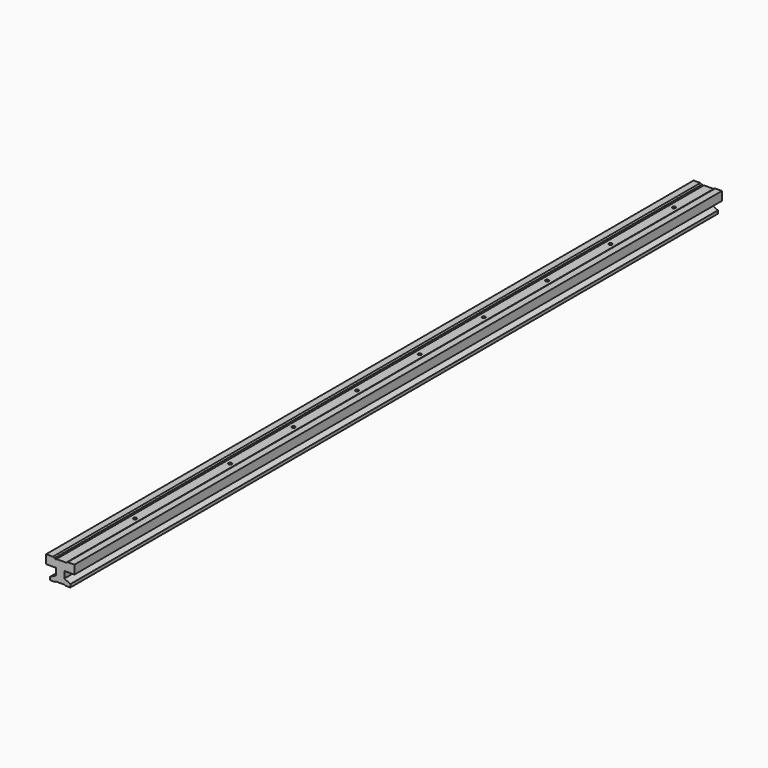
from build123d import *

# Parameters (mm, degrees)
F1_DEPTH = 609.6
F3_D     = 2.54


with BuildPart() as f1:
    # F0 (on Front) → F1 (new body)
    with BuildSketch(Plane.XZ):
        with BuildLine():
            Line((-6.559787, -4.439499), (-11.639787, -4.439499))
            Line((-11.639787, -4.439499), (-11.639787, -11.043499))
            Line((-11.639787, -11.043499), (-4.019787, -11.043499))
            Line((-4.019787, -11.043499), (-4.019787, -16.123499))
            Line((-4.019787, -16.123499), (-8.575975, -18.370174))
            Line((-8.575975, -18.370174), (-8.575975, -20.656174))
            Line((-8.575975, -20.656174), (-4.765975, -20.656174))
            Line((-4.765975, -20.656174), (-4.155417, -20.148174))
            Line((-4.155417, -20.148174), (2.194583, -20.148174))
            Line((2.194583, -20.148174), (2.854025, -20.59087))
            Line((2.854025, -20.59087), (6.664025, -20.59087))
            Line((6.664025, -20.59087), (6.664025, -18.30487))
            Line((6.664025, -18.30487), (2.076213, -16.123499))
            Line((2.076213, -16.123499), (2.076213, -11.043499))
            Line((2.076213, -11.043499), (9.696213, -11.043499))
            Line((9.696213, -11.043499), (9.696213, -4.439499))
            Line((9.696213, -4.439499), (4.616213, -4.439499))
            Line((4.616213, -4.439499), (3.473213, -5.113759))
            Line((3.473213, -5.113759), (-3.702287, -5.113759))
            ThreePointArc((-3.702287, -5.113759), (-4.146787, -5.558259), (-4.591287, -5.113759))
            Line((-4.591287, -5.113759), (-5.416787, -5.113759))
            Line((-5.416787, -5.113759), (-6.559787, -4.439499))
        make_face()
    extrude(amount=F1_DEPTH)

    # F3 (through all)
    with Locations(Plane.XY.offset(-5.113759)):
        with Locations((0, -33.02), (0, -92.71), (0, -152.4), (0, -212.09), (0, -272.464672), (0, -331.47), (0, -391.16), (0, -450.85), (0, -540.461149)):
            Hole(F3_D / 2)


solid = f1.part
